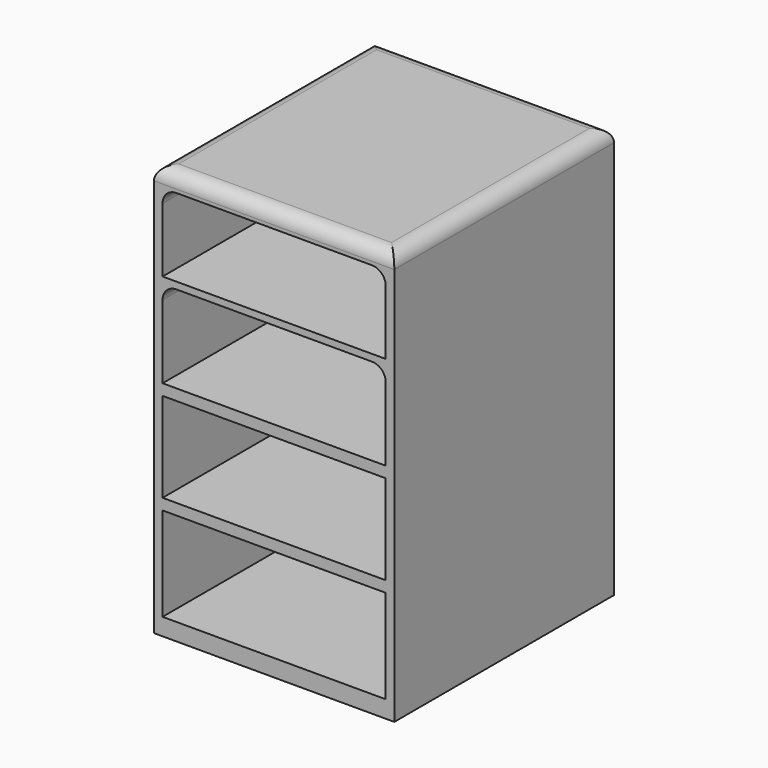
from build123d import *

# Parameters (mm, degrees)
F0_W     = 88.9
F0_H     = 152.4
F1_DEPTH = 50.8
F2_W     = 82.55
F2_H     = 28.864218
F2_H_2   = 32.227332
F2_H_3   = 33.203915
F2_H_4   = 34.661213
F3_DEPTH = 88.9
F4_R     = 5.08


with BuildPart() as f1:
    # F0 (on Front) → F1 (new body, symmetric)
    with BuildSketch(Plane.XZ):
        Rectangle(F0_W, F0_H)
    extrude(amount=F1_DEPTH, both=True)

    # F2 (on face) → F3 (cut)
    with BuildSketch(Plane.XZ.offset(50.8)):
        with Locations((0, 55.417891)):
            Rectangle(F2_W, F2_H)
        with Locations((0, 22.332116)):
            Rectangle(F2_W, F2_H_2)
        with Locations((0, -14.485167)):
            Rectangle(F2_W, F2_H_3)
        with Locations((0, -52.519393)):
            Rectangle(F2_W, F2_H_4)
    extrude(amount=-F3_DEPTH, mode=Mode.SUBTRACT)

    # F4
    f4_edges = [f1.edges().sort_by_distance(p)[0] for p in [
        (-44.45, 0, 76.2),
        (44.45, 0, 76.2),
        (0, 50.8, 76.2),
        (0, -50.8, 76.2),
        (-41.275, -6.35, 38.445782),
        (41.275, -6.35, 38.445782),
        (41.275, -6.35, 69.85),
        (-41.275, -6.35, 69.85),
    ]]
    fillet(f4_edges, radius=F4_R)


solid = f1.part
